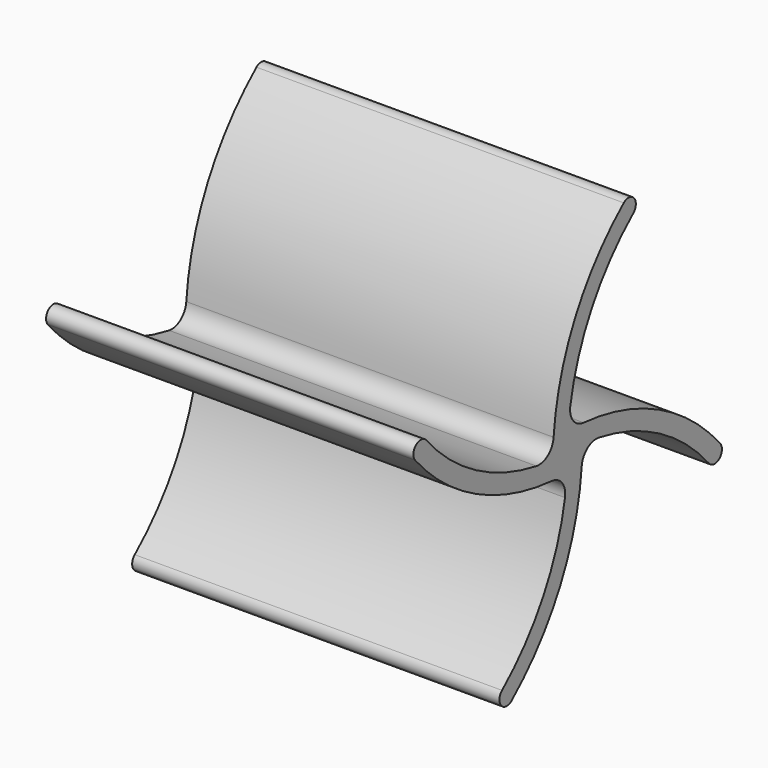
from build123d import *

# Parameters (mm, degrees)
F1_DEPTH = 50
F3_COUNT = 4
F4_R     = 5


with BuildPart() as f1:
    # F0 (on Right) → F1 (new body, symmetric)
    with BuildSketch(Plane.YZ):
        with BuildLine():
            ThreePointArc((4.996056664, -0.1985391896), (28.756397628, -6.9508107655), (48.0904328859, -22.324231166))
            ThreePointArc((48.0904328859, -22.324231166), (51.6135530474, -22.6202452328), (51.9095671141, -19.0971250713))
            ThreePointArc((51.9095671141, -19.0971250713), (28.6150074029, -1.3179590775), (0, 5))
            ThreePointArc((0, 5), (3.5355339059, 3.5355339059), (5, 0))
            ThreePointArc((5, 0), (4.9990140688, -0.0992891732), (4.996056664, -0.1985391896))
        make_face()
        with BuildLine():
            ThreePointArc((0, 5), (-3.605044795, -3.4646286996), (4.996056664, -0.1985391896))
            ThreePointArc((4.996056664, -0.1985391896), (4.9990140688, -0.0992891732), (5, 0))
            ThreePointArc((5, 0), (3.5355339059, 3.5355339059), (0, 5))
        make_face()
    extrude(amount=F1_DEPTH, both=True)

    # F3: F1 ×4 about axis
    f3_axis = Axis((20.0893953443, 0, 0), (1, 0, 0))


with BuildPart() as f1_1:
    add(f1.part)
    for i in range(1, F3_COUNT):
        add(f1.part.rotate(f3_axis, i * 360 / F3_COUNT))

    # F4
    f4_edges = [f1_1.edges().sort_by_distance(p)[0] for p in [
        (0, 4.999709, -0.19883),
        (0, -0.19883, -4.999709),
        (0, -4.999709, 0.19883),
        (0, 0.19883, 4.999709),
    ]]
    fillet(f4_edges, radius=F4_R)


solid = f1_1.part
